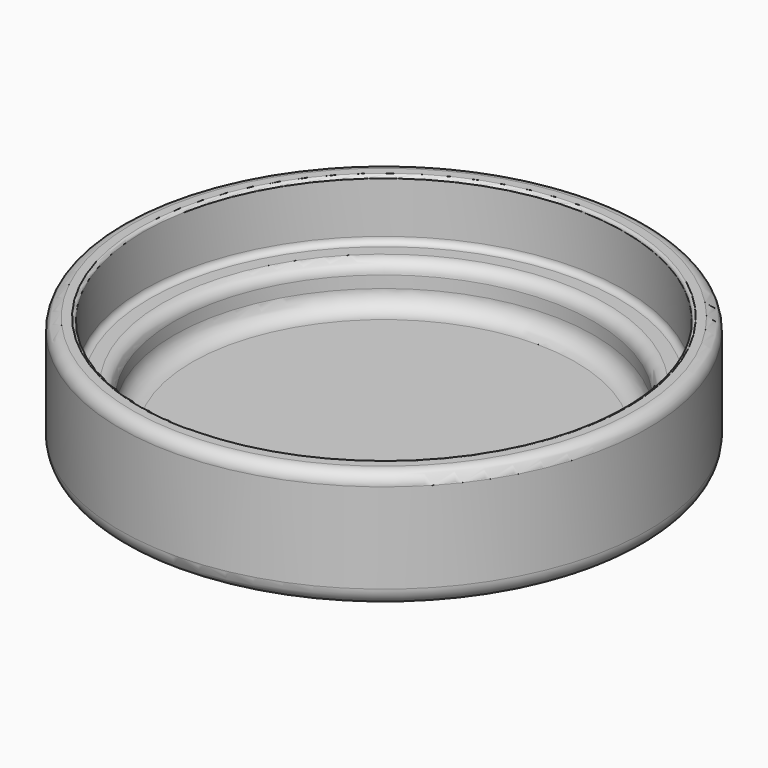
from build123d import *

# Parameters (mm, degrees)
F2_R = 3
F3_R = 2
F4_R = 2
F5_R = 0.5
F6_R = 1


with BuildPart() as f1:
    # F0 (on Front) → F1 (revolve)
    with BuildSketch(Plane.XZ):
        with BuildLine():
            Line((0, -3), (0, 0))
            Line((0, 0), (-35, 0))
            Line((-35, 0), (-35, 7))
            Line((-35, 7), (-40.1, 7))
            Line((-40.1, 7), (-40.1, 17))
            Line((-40.1, 17), (-44, 17))
            Line((-44, 17), (-44, 0))
            ThreePointArc((-44, 0), (-43.12132, -2.12132), (-41, -3))
            Line((-41, -3), (0, -3))
        make_face()
    revolve(axis=Axis((0, 0, -1.5), (0, 0, 1)))

    # F2
    f2_edges = [f1.edges().sort_by_distance(p)[0] for p in [
        (35, 0, 0),
    ]]
    fillet(f2_edges, radius=F2_R)

    # F3
    f3_edges = [f1.edges().sort_by_distance(p)[0] for p in [
        (35, 0, 7),
    ]]
    fillet(f3_edges, radius=F3_R)

    # F4
    f4_edges = [f1.edges().sort_by_distance(p)[0] for p in [
        (44, 0, 17),
    ]]
    fillet(f4_edges, radius=F4_R)

    # F5
    f5_edges = [f1.edges().sort_by_distance(p)[0] for p in [
        (40.1, 0, 17),
    ]]
    fillet(f5_edges, radius=F5_R)

    # F6
    f6_edges = [f1.edges().sort_by_distance(p)[0] for p in [
        (40.1, 0, 7),
    ]]
    fillet(f6_edges, radius=F6_R)


solid = f1.part
